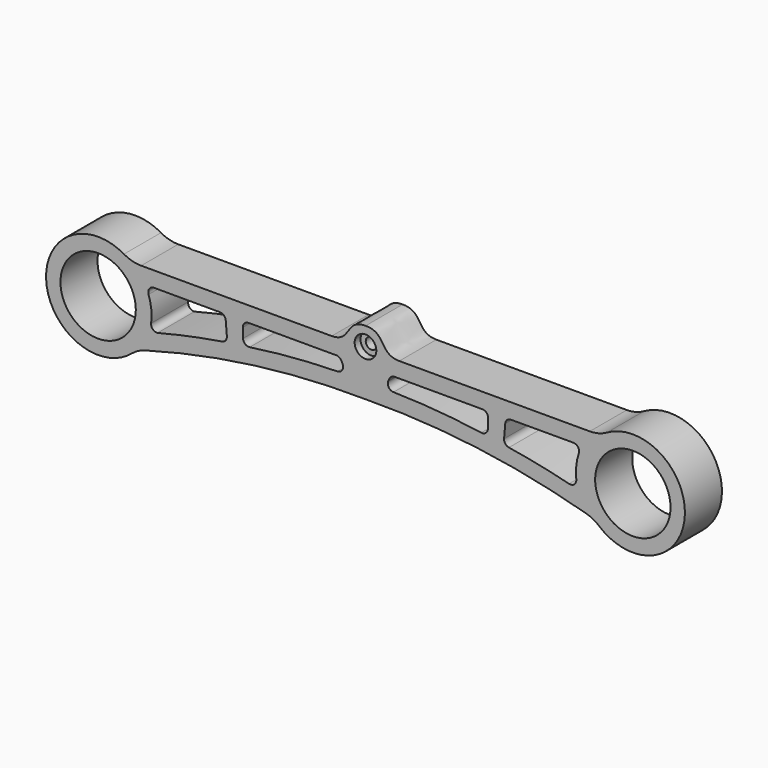
from build123d import *

# Parameters (mm, degrees)
F0_R     = 20.6756
F0_R_2   = 5.9436
F1_DEPTH = 25.4
F0_R_3   = 3.0734
F2_DEPTH = 21.3868


with BuildPart() as f1:
    # F0 (on Front) → F1 (new body)
    with BuildSketch(Plane.XZ):
        with BuildLine():
            Line((269.787128, 22.297191), (165.259108, 22.297191))
            add(Edge.make_bspline(
                [(146.78723, 33.306191), (158.287957, 33.304486), (154.049605, 22.469644), (165.259108, 22.297191)],
                knots=[0, 0, 0, 0, 21.503682, 21.503682, 21.503682, 21.503682], degree=3))
            add(Edge.make_bspline(
                [(146.78723, 33.306191), (135.286503, 33.304486), (139.371195, 22.469644), (128.161692, 22.297191)],
                knots=[0, 0, 0, 0, 21.635821, 21.635821, 21.635821, 21.635821], degree=3))
            Line((128.161692, 22.297191), (23.633672, 22.297191))
            ThreePointArc((23.633672, 22.297191), (18.743023, 22.935671), (14.180203, 24.808314))
            ThreePointArc((14.180203, 24.808314), (-28.454044, -2.626402), (18.481705, -21.793513))
            ThreePointArc((18.481705, -21.793513), (21.867136, -19.498263), (25.664492, -17.978589))
            ThreePointArc((25.664492, -17.978589), (85.620488, -5.742057), (146.7104, -2.2098))
            ThreePointArc((146.7104, -2.2098), (207.800312, -5.742057), (267.756308, -17.978589))
            ThreePointArc((267.756308, -17.978589), (271.553664, -19.498263), (274.939095, -21.793513))
            ThreePointArc((274.939095, -21.793513), (321.874844, -2.626402), (279.240597, 24.808314))
            ThreePointArc((279.240597, 24.808314), (274.677777, 22.935671), (269.787128, 22.297191))
        make_face()
        Circle(F0_R, mode=Mode.SUBTRACT)
        with Locations((293.4208, 0)):
            Circle(F0_R, mode=Mode.SUBTRACT)
        with BuildLine():
            ThreePointArc((66.872766, 13.874997), (69.022761, 13.03408), (70.034801, 10.959134))
            Line((70.034801, 10.959134), (70.649343, 3.454729))
            ThreePointArc((70.649343, 3.454729), (69.982459, 1.235234), (67.98491, 0.060206))
            ThreePointArc((67.98491, 0.060206), (50.186954, -3.20504), (32.560536, -7.296308))
            ThreePointArc((32.560536, -7.296308), (29.961545, -6.35529), (29.085011, -3.733848))
            ThreePointArc((29.085011, -3.733848), (29.164187, 3.054457), (27.680236, 9.679051))
            ThreePointArc((27.680236, 9.679051), (28.08877, 12.565569), (30.679664, 13.902041))
            Line((30.679664, 13.902041), (66.872766, 13.874997))
        make_face(mode=Mode.SUBTRACT)
        with BuildLine():
            Line((82.567574, 13.82743), (130.692606, 13.82743))
            ThreePointArc((130.692606, 13.82743), (132.403781, 13.326847), (133.575375, 11.982945))
            Line((133.575375, 11.982945), (134.156273, 10.724337))
            ThreePointArc((134.156273, 10.724337), (133.963585, 7.70738), (131.332054, 6.219363))
            ThreePointArc((131.332054, 6.219363), (107.194015, 5.007479), (83.181377, 2.267625))
            ThreePointArc((83.181377, 2.267625), (80.680916, 2.976799), (79.54794, 5.315943))
            Line((79.54794, 5.315943), (79.393942, 10.559219))
            ThreePointArc((79.393942, 10.559219), (80.289793, 12.864293), (82.567574, 13.82743))
        make_face(mode=Mode.SUBTRACT)
        with Locations((146.7104, 23.1902)):
            Circle(F0_R_2, mode=Mode.SUBTRACT)
        with BuildLine():
            ThreePointArc((213.87286, 5.315943), (212.739884, 2.976799), (210.239423, 2.267625))
            ThreePointArc((210.239423, 2.267625), (186.226785, 5.007479), (162.088746, 6.219363))
            ThreePointArc((162.088746, 6.219363), (159.457215, 7.70738), (159.264527, 10.724337))
            Line((159.264527, 10.724337), (159.845425, 11.982945))
            ThreePointArc((159.845425, 11.982945), (161.017019, 13.326847), (162.728194, 13.82743))
            Line((162.728194, 13.82743), (210.853226, 13.82743))
            ThreePointArc((210.853226, 13.82743), (213.131007, 12.864293), (214.026858, 10.559219))
            Line((214.026858, 10.559219), (213.87286, 5.315943))
        make_face(mode=Mode.SUBTRACT)
        with BuildLine():
            ThreePointArc((260.746079, 13.90055), (263.319212, 12.588833), (263.765066, 9.735269))
            ThreePointArc((263.765066, 9.735269), (262.38138, 3.285183), (262.384193, -3.311649))
            ThreePointArc((262.384193, -3.311649), (261.297322, -6.055766), (258.421421, -6.719586))
            ThreePointArc((258.421421, -6.719586), (242.003928, -2.962722), (225.435593, 0.060253))
            ThreePointArc((225.435593, 0.060253), (223.438249, 1.235352), (222.771457, 3.454729))
            Line((222.771457, 3.454729), (223.385999, 10.959134))
            ThreePointArc((223.385999, 10.959134), (224.398039, 13.03408), (226.548034, 13.874997))
            Line((226.548034, 13.874997), (260.746079, 13.90055))
        make_face(mode=Mode.SUBTRACT)
    extrude(amount=F1_DEPTH)

    # F0 (on Front) → F2 (join)
    with BuildSketch(Plane.XZ):
        with Locations((146.7104, 23.1902)):
            Circle(F0_R_2)
        with Locations((146.7104, 23.1902)):
            Circle(F0_R_3, mode=Mode.SUBTRACT)
    extrude(amount=F2_DEPTH)


solid = f1.part
